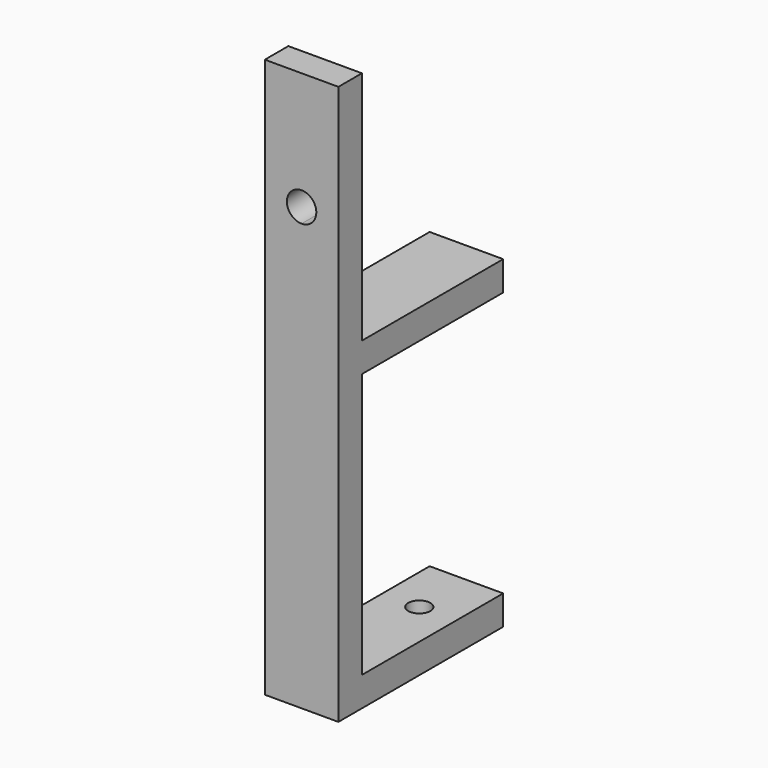
from build123d import *

# Parameters (mm, degrees)
F1_DEPTH = 7.9375
F4_DEPTH = 25.4
F5_DEPTH = 25.4


with BuildPart() as f1:
    # F0 (on Right) → F1 (new body, symmetric)
    with BuildSketch(Plane.YZ):
        Polygon((4.7625, 0), (4.7625, 50.8), (-1.5875, 50.8), (-1.5875, 0), (-1.5875, -69.85), (4.7625, -69.85), (42.8625, -69.85), (42.8625, -63.5), (4.7625, -63.5), (4.7625, -6.35), (42.8625, -6.35), (42.8625, 0), align=None)
    extrude(amount=F1_DEPTH, both=True)

    # F3 (on face) → F4 (cut)
    with BuildSketch(Plane.XZ.offset(1.5875)):
        with BuildLine():
            ThreePointArc((0, 22.225), (2.245064, 23.154936), (3.175, 25.4))
            ThreePointArc((3.175, 25.4), (-2.245064, 27.645064), (0, 22.225))
        make_face()
    extrude(amount=-F4_DEPTH, mode=Mode.SUBTRACT)

    # F2 (on face) → F5 (cut)
    with BuildSketch(Plane.XY.offset(-63.5)):
        with BuildLine():
            ThreePointArc((2.38125, 30.1625), (-1.683798, 31.846298), (0, 27.78125))
            ThreePointArc((0, 27.78125), (1.683798, 28.478702), (2.38125, 30.1625))
        make_face()
    extrude(amount=-F5_DEPTH, mode=Mode.SUBTRACT)


solid = f1.part
